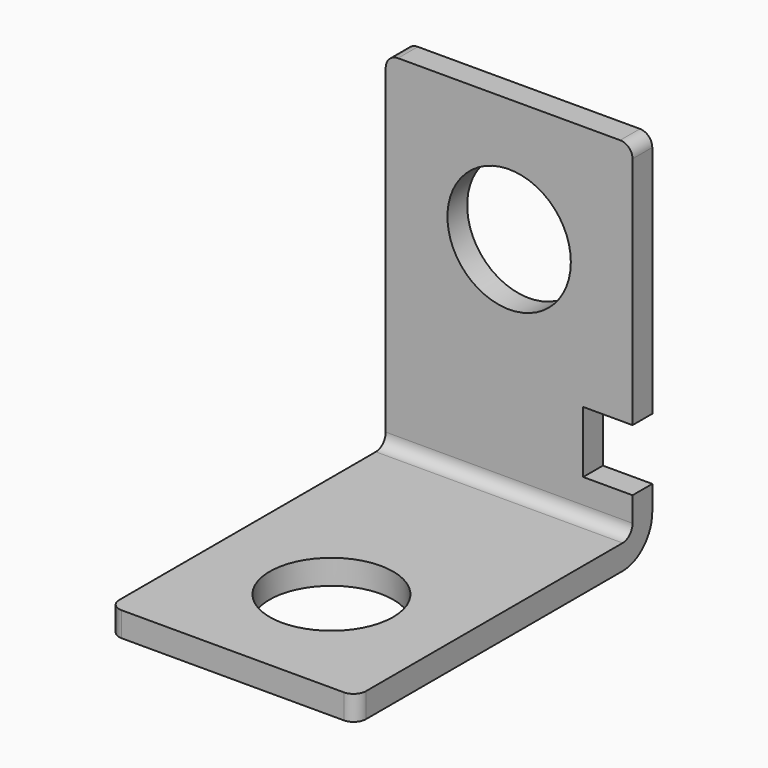
from build123d import *

# Parameters (mm, degrees)
F0_W      = 20
F0_H      = 30
F1_DEPTH  = 2
F2_W      = 20
F2_H      = 2
F3_DEPTH  = 28
F4_R      = 3
F5_R      = 1
F6_R      = 5
F7_DEPTH  = 2
F8_R      = 5
F9_DEPTH  = 2
F10_W     = 4
F10_H     = 5
F11_DEPTH = 2


with BuildPart() as f1:
    # F0 (on Top) → F1 (new body)
    with BuildSketch(Plane.XY):
        Rectangle(F0_W, F0_H)
    extrude(amount=F1_DEPTH)

    # F2 (on face) → F3 (join)
    with BuildSketch(Plane.XY.offset(2)):
        with Locations((0, 14)):
            Rectangle(F2_W, F2_H)
    extrude(amount=F3_DEPTH)

    # F4
    f4_edges = [f1.edges().sort_by_distance(p)[0] for p in [
        (0, 15, 0),
    ]]
    fillet(f4_edges, radius=F4_R)

    # F5
    f5_edges = [f1.edges().sort_by_distance(p)[0] for p in [
        (10, -15, 1),
        (-10, -15, 1),
        (10, 14, 30),
        (-10, 14, 30),
        (0, 13, 2),
    ]]
    fillet(f5_edges, radius=F5_R)

    # F6 (on face) → F7 (cut, through all)
    with BuildSketch(Plane.XY.offset(2)):
        with Locations((0, -5)):
            Circle(F6_R)
    extrude(amount=-F7_DEPTH, mode=Mode.SUBTRACT)

    # F8 (on face) → F9 (cut, through all)
    with BuildSketch(Plane.XZ.offset(-13)):
        with Locations((0, 20)):
            Circle(F8_R)
    extrude(amount=-F9_DEPTH, mode=Mode.SUBTRACT)

    # F10 (on face) → F11 (cut, through all)
    with BuildSketch(Plane.XZ.offset(-13)):
        with Locations((8, 7.5)):
            Rectangle(F10_W, F10_H)
    extrude(amount=-F11_DEPTH, mode=Mode.SUBTRACT)


solid = f1.part
